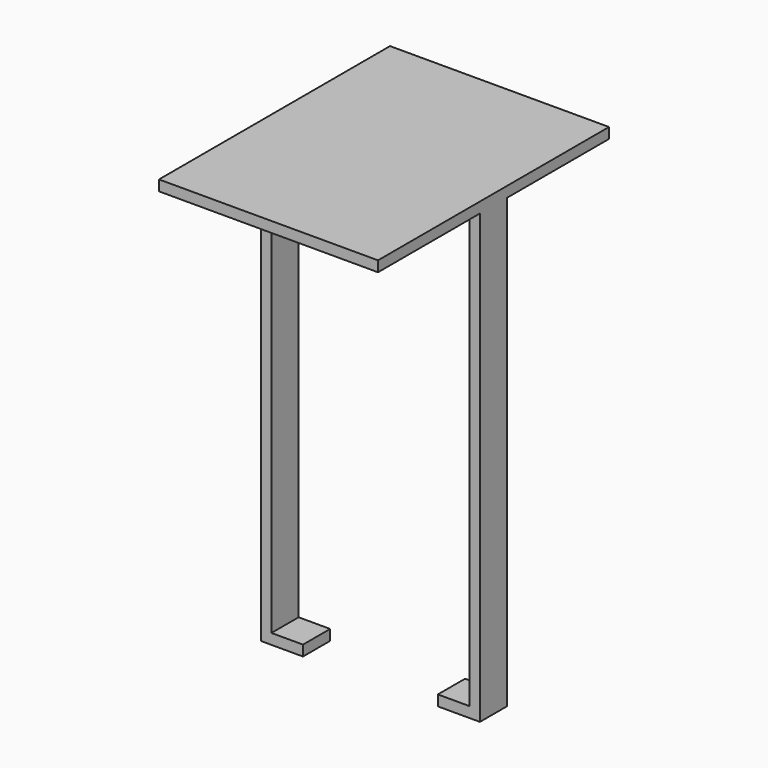
from build123d import *

# Parameters (mm, degrees)
F0_W     = 7.4329227209
F0_H     = 2.4776421487
F0_W_2   = 7.4329264462
F1_DEPTH = 8
F3_DEPTH = 30
F5_DEPTH = 30


with BuildPart() as f1:
    # F0 (on Front) → F1 (new body)
    with BuildSketch(Plane.XZ):
        with Locations((-25.923974812, -41.8709013611)):
            Rectangle(F0_W, F0_H)
        Polygon((-19.7298713028, -43.1097224355), (-19.7298713028, 62.3026564717), (-22.2075134516, 62.3026564717), (-22.2075134516, -40.6320802867), (-22.2075134516, -43.1097224355), align=None)
        Polygon((-19.7298713028, 64.7802948952), (-71.3098570704, 64.7802948952), (-71.3098570704, 62.3026564717), (-68.832218647, 62.3026564717), (-22.2075134516, 62.3026564717), (-19.7298713028, 62.3026564717), align=None)
        Polygon((-68.832218647, 62.3026564717), (-71.3098570704, 62.3026564717), (-71.3098570704, -43.1097224355), (-68.832218647, -43.1097224355), (-68.832218647, -40.6320802867), align=None)
        with Locations((-65.1157554239, -41.8709013611)):
            Rectangle(F0_W_2, F0_H)
    extrude(amount=F1_DEPTH)

    # F2 (on face) → F3 (join)
    with BuildSketch(Plane(origin=(0, 0, 0), x_dir=(-1, 0, 0), z_dir=(0, 1, 0))):
        Polygon((71.3098570704, 64.7802948952), (19.7298713028, 64.7802948952), (19.7298713028, 62.3026564717), (22.2075134516, 62.3026564717), (68.832218647, 62.3026564717), (71.3098570704, 62.3026564717), align=None)
    extrude(amount=F3_DEPTH)

    # F4 (on face) → F5 (join)
    with BuildSketch(Plane.XZ.offset(8)):
        Polygon((-19.7298713028, 64.7802948952), (-71.3098570704, 64.7802948952), (-71.3098570704, 62.3026564717), (-68.832218647, 62.3026564717), (-22.2075134516, 62.3026564717), (-19.7298713028, 62.3026564717), align=None)
    extrude(amount=F5_DEPTH)


solid = f1.part
